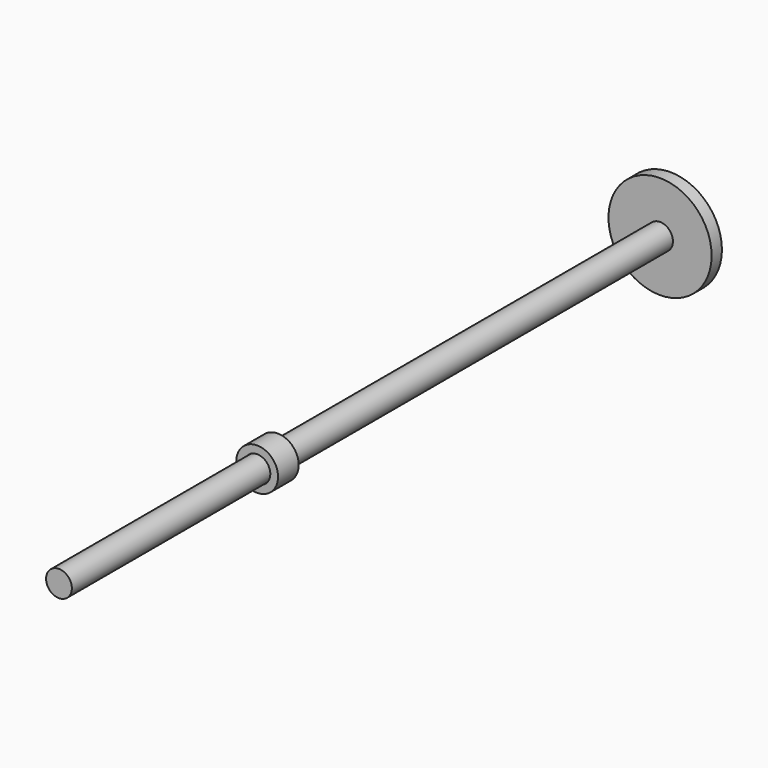
from build123d import *

# Parameters (mm, degrees)
F2_R     = 25.4
F3_DEPTH = 6.35
F4_W     = 12.7
F4_H     = 3.81


with BuildPart() as f1:
    # F0 (on Right) → F1 (revolve)
    with BuildSketch(Plane.YZ):
        Polygon((0, -6.35), (0, 0), (-304.8, 0), (-376.4366805553, 0), (-376.4366805553, -6.35), (-304.8, -6.35), align=None)
    revolve(axis=Axis((0, -152.4, 0), (0, -1, 0)))


with BuildPart() as f3:
    # F2 (on Front) → F3 (new body)
    with BuildSketch(Plane.XZ):
        Circle(F2_R)
    extrude(amount=F3_DEPTH)


with BuildPart() as f5:
    # F4 (on Right) → F5 (revolve)
    with BuildSketch(Plane.YZ):
        with Locations((-248.0537518859, 8.3854413971)):
            Rectangle(F4_W, F4_H)
    revolve(axis=Axis((0, -152.4, 0), (0, -1, 0)))


solid = Compound([f1.part, f3.part, f5.part])
